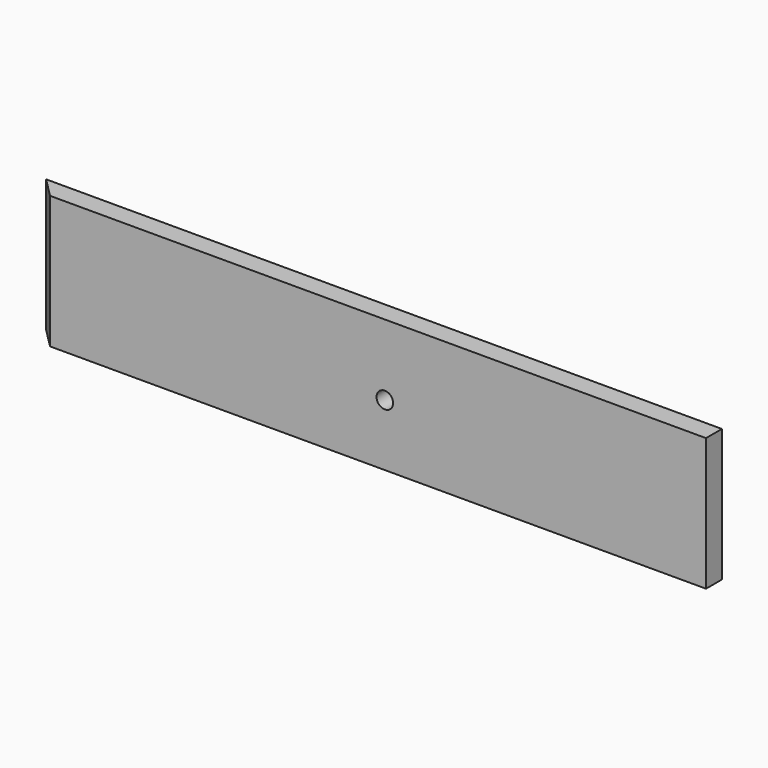
from build123d import *

# Parameters (mm, degrees)
F1_DEPTH = 2000
F2_R     = 125
F3_DEPTH = 300.001


with BuildPart() as f1:
    # F0 (on Top) → F1 (new body)
    with BuildSketch(Plane.XY):
        Polygon((-10050, 300), (-9750, 0), (0, 0), (145, 0), (145, 300), align=None)
    extrude(amount=F1_DEPTH)

    # F2 (on Front) → F3 (cut, through all)
    with BuildSketch(Plane.XZ):
        with Locations((-4700, 930)):
            Circle(F2_R)
    extrude(amount=-F3_DEPTH, mode=Mode.SUBTRACT)


solid = f1.part
